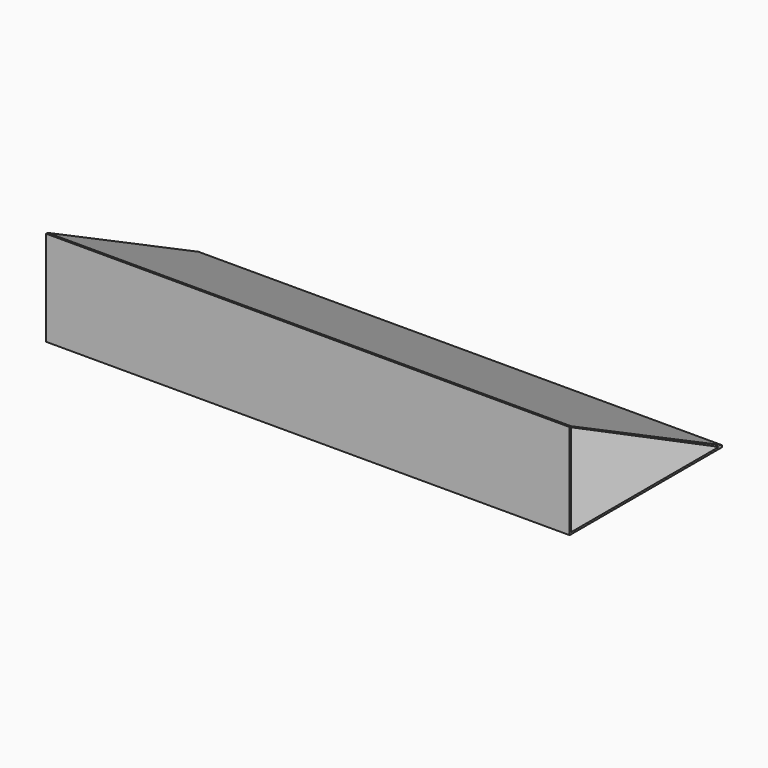
from build123d import *

# Parameters (mm, degrees)
F1_DEPTH = 5500


with BuildPart() as f1:
    # F0 (on Right) → F1 (new body)
    with BuildSketch(Plane.YZ):
        Polygon((0, 20), (0, 0), (20, 0), (2000, 0), (2000, 20), (20, 1000), (0, 1000), align=None)
        Polygon((1960, 20), (20, 20), (20, 990), align=None, mode=Mode.SUBTRACT)
    extrude(amount=F1_DEPTH)


solid = f1.part
